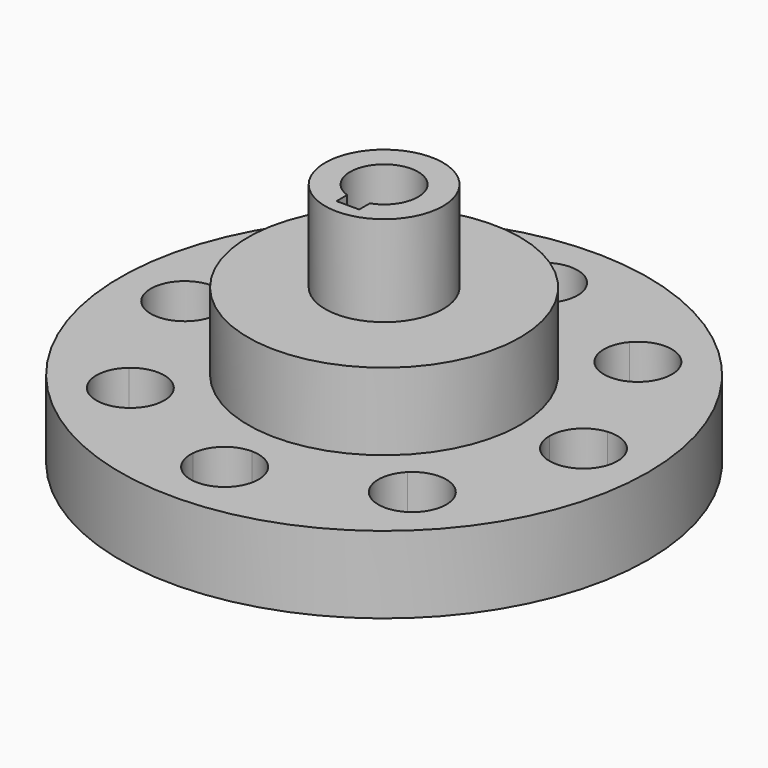
from build123d import *

# Parameters (mm, degrees)
F0_R      = 73.9775
F1_DEPTH  = 21.59
F3_DEPTH  = 21.591
F4_R      = 38.1
F5_DEPTH  = 21.59
F6_R      = 16.51
F7_DEPTH  = 25.4
F9_D      = 19.05
F10_W     = 6.35
F10_H     = 6.35
F11_DEPTH = 25.4


with BuildPart() as f1:
    # F0 (on Top) → F1 (new body)
    with BuildSketch(Plane.XY):
        Circle(F0_R)
    extrude(amount=F1_DEPTH)

    # F2 (on face) → F3 (cut, through all)
    with BuildSketch(Plane.XY.offset(21.59)):
        with BuildLine():
            ThreePointArc((-45.649791, 32.228419), (-42.736956, 36.001764), (-39.513127, 39.513127))
            ThreePointArc((-39.513127, 39.513127), (-36.001764, 42.736956), (-32.228419, 45.649791))
            ThreePointArc((-32.228419, 45.649791), (-46.248319, 46.248319), (-45.649791, 32.228419))
        make_face()
        with BuildLine():
            Line((-39.513127, 39.513127), (-32.777935, 32.777935))
            ThreePointArc((-32.777935, 32.777935), (-30.713174, 35.868067), (-29.988127, 39.513127))
            ThreePointArc((-29.988127, 39.513127), (-30.565712, 42.77953), (-32.228419, 45.649791))
            ThreePointArc((-32.228419, 45.649791), (-36.001764, 42.736956), (-39.513127, 39.513127))
        make_face()
        with BuildLine():
            ThreePointArc((-45.649791, 32.228419), (-39.106862, 29.996795), (-32.777935, 32.777935))
            Line((-32.777935, 32.777935), (-39.513127, 39.513127))
            ThreePointArc((-39.513127, 39.513127), (-42.736956, 36.001764), (-45.649791, 32.228419))
        make_face()
        with BuildLine():
            ThreePointArc((-9.490344, 55.06821), (-4.7625, 55.676683), (0, 55.88))
            ThreePointArc((0, 55.88), (4.7625, 55.676683), (9.490344, 55.06821))
            ThreePointArc((9.490344, 55.06821), (9.516332, 55.473735), (9.525, 55.88))
            ThreePointArc((9.525, 55.88), (-0.406265, 65.396332), (-9.490344, 55.06821))
        make_face()
        with BuildLine():
            Line((0, 55.88), (0, 46.355))
            ThreePointArc((0, 46.355), (6.44179, 48.863665), (9.490344, 55.06821))
            ThreePointArc((9.490344, 55.06821), (4.7625, 55.676683), (0, 55.88))
        make_face()
        with BuildLine():
            ThreePointArc((-9.490344, 55.06821), (-6.44179, 48.863665), (0, 46.355))
            Line((0, 46.355), (0, 55.88))
            ThreePointArc((0, 55.88), (-4.7625, 55.676683), (-9.490344, 55.06821))
        make_face()
        with BuildLine():
            ThreePointArc((32.777935, 32.777935), (39.106862, 29.996795), (45.649791, 32.228419))
            ThreePointArc((45.649791, 32.228419), (42.736956, 36.001764), (39.513127, 39.513127))
            Line((39.513127, 39.513127), (32.777935, 32.777935))
        make_face()
        with BuildLine():
            Line((32.777935, 32.777935), (39.513127, 39.513127))
            ThreePointArc((39.513127, 39.513127), (36.001764, 42.736956), (32.228419, 45.649791))
            ThreePointArc((32.228419, 45.649791), (29.996795, 39.106862), (32.777935, 32.777935))
        make_face()
        with BuildLine():
            ThreePointArc((39.513127, 39.513127), (42.736956, 36.001764), (45.649791, 32.228419))
            ThreePointArc((45.649791, 32.228419), (48.149601, 35.496045), (49.038127, 39.513127))
            ThreePointArc((49.038127, 39.513127), (42.77953, 48.460542), (32.228419, 45.649791))
            ThreePointArc((32.228419, 45.649791), (36.001764, 42.736956), (39.513127, 39.513127))
        make_face()
        with BuildLine():
            ThreePointArc((55.06821, -9.490344), (55.676683, -4.7625), (55.88, 0))
            Line((55.88, 0), (46.355, 0))
            ThreePointArc((46.355, 0), (48.863665, -6.44179), (55.06821, -9.490344))
        make_face()
        with BuildLine():
            ThreePointArc((55.06821, 9.490344), (55.676683, 4.7625), (55.88, 0))
            ThreePointArc((55.88, 0), (55.676683, -4.7625), (55.06821, -9.490344))
            ThreePointArc((55.06821, -9.490344), (62.32179, -7.016335), (65.405, 0))
            ThreePointArc((65.405, 0), (62.32179, 7.016335), (55.06821, 9.490344))
        make_face()
        with BuildLine():
            Line((46.355, 0), (55.88, 0))
            ThreePointArc((55.88, 0), (55.676683, 4.7625), (55.06821, 9.490344))
            ThreePointArc((55.06821, 9.490344), (48.863665, 6.44179), (46.355, 0))
        make_face()
        with BuildLine():
            ThreePointArc((32.228419, -45.649791), (36.001764, -42.736956), (39.513127, -39.513127))
            Line((39.513127, -39.513127), (32.777935, -32.777935))
            ThreePointArc((32.777935, -32.777935), (29.996795, -39.106862), (32.228419, -45.649791))
        make_face()
        with BuildLine():
            ThreePointArc((39.513127, -39.513127), (42.736956, -36.001764), (45.649791, -32.228419))
            ThreePointArc((45.649791, -32.228419), (39.106862, -29.996795), (32.777935, -32.777935))
            Line((32.777935, -32.777935), (39.513127, -39.513127))
        make_face()
        with BuildLine():
            ThreePointArc((49.038127, -39.513127), (48.149601, -35.496045), (45.649791, -32.228419))
            ThreePointArc((45.649791, -32.228419), (42.736956, -36.001764), (39.513127, -39.513127))
            ThreePointArc((39.513127, -39.513127), (36.001764, -42.736956), (32.228419, -45.649791))
            ThreePointArc((32.228419, -45.649791), (42.77953, -48.460542), (49.038127, -39.513127))
        make_face()
        with BuildLine():
            ThreePointArc((9.490344, -55.06821), (6.44179, -48.863665), (0, -46.355))
            Line((0, -46.355), (0, -55.88))
            ThreePointArc((0, -55.88), (4.7625, -55.676683), (9.490344, -55.06821))
        make_face()
        with BuildLine():
            Line((0, -55.88), (0, -46.355))
            ThreePointArc((0, -46.355), (-6.44179, -48.863665), (-9.490344, -55.06821))
            ThreePointArc((-9.490344, -55.06821), (-4.7625, -55.676683), (0, -55.88))
        make_face()
        with BuildLine():
            ThreePointArc((9.490344, -55.06821), (4.7625, -55.676683), (0, -55.88))
            ThreePointArc((0, -55.88), (-4.7625, -55.676683), (-9.490344, -55.06821))
            ThreePointArc((-9.490344, -55.06821), (-0.406265, -65.396332), (9.525, -55.88))
            ThreePointArc((9.525, -55.88), (9.516332, -55.473735), (9.490344, -55.06821))
        make_face()
        with BuildLine():
            ThreePointArc((-32.228419, -45.649791), (-36.001764, -42.736956), (-39.513127, -39.513127))
            ThreePointArc((-39.513127, -39.513127), (-42.736956, -36.001764), (-45.649791, -32.228419))
            ThreePointArc((-45.649791, -32.228419), (-46.248319, -46.248319), (-32.228419, -45.649791))
        make_face()
        with BuildLine():
            ThreePointArc((-29.988127, -39.513127), (-30.713174, -35.868067), (-32.777935, -32.777935))
            Line((-32.777935, -32.777935), (-39.513127, -39.513127))
            ThreePointArc((-39.513127, -39.513127), (-36.001764, -42.736956), (-32.228419, -45.649791))
            ThreePointArc((-32.228419, -45.649791), (-30.565712, -42.77953), (-29.988127, -39.513127))
        make_face()
        with BuildLine():
            Line((-39.513127, -39.513127), (-32.777935, -32.777935))
            ThreePointArc((-32.777935, -32.777935), (-39.106862, -29.996795), (-45.649791, -32.228419))
            ThreePointArc((-45.649791, -32.228419), (-42.736956, -36.001764), (-39.513127, -39.513127))
        make_face()
        with BuildLine():
            ThreePointArc((-55.06821, -9.490344), (-55.676683, -4.7625), (-55.88, 0))
            ThreePointArc((-55.88, 0), (-55.676683, 4.7625), (-55.06821, 9.490344))
            ThreePointArc((-55.06821, 9.490344), (-65.405, 0), (-55.06821, -9.490344))
        make_face()
        with BuildLine():
            Line((-55.88, 0), (-46.355, 0))
            ThreePointArc((-46.355, 0), (-48.863665, 6.44179), (-55.06821, 9.490344))
            ThreePointArc((-55.06821, 9.490344), (-55.676683, 4.7625), (-55.88, 0))
        make_face()
        with BuildLine():
            ThreePointArc((-55.06821, -9.490344), (-48.863665, -6.44179), (-46.355, 0))
            Line((-46.355, 0), (-55.88, 0))
            ThreePointArc((-55.88, 0), (-55.676683, -4.7625), (-55.06821, -9.490344))
        make_face()
    extrude(amount=-F3_DEPTH, mode=Mode.SUBTRACT)

    # F4 (on face) → F5 (join)
    with BuildSketch(Plane.XY.offset(21.59)):
        Circle(F4_R)
    extrude(amount=F5_DEPTH)

    # F6 (on face) → F7 (join)
    with BuildSketch(Plane.XY.offset(43.18)):
        Circle(F6_R)
    extrude(amount=F7_DEPTH)

    # F9 (through all)
    with Locations(Plane.XY.offset(68.58)):
        with Locations((0, 0)):
            Hole(F9_D / 2)

    # F10 (on face) → F11 (cut)
    with BuildSketch(Plane.XY.offset(68.58)):
        with Locations((0, -9.525)):
            Rectangle(F10_W, F10_H)
    extrude(amount=-F11_DEPTH, mode=Mode.SUBTRACT)


solid = f1.part
